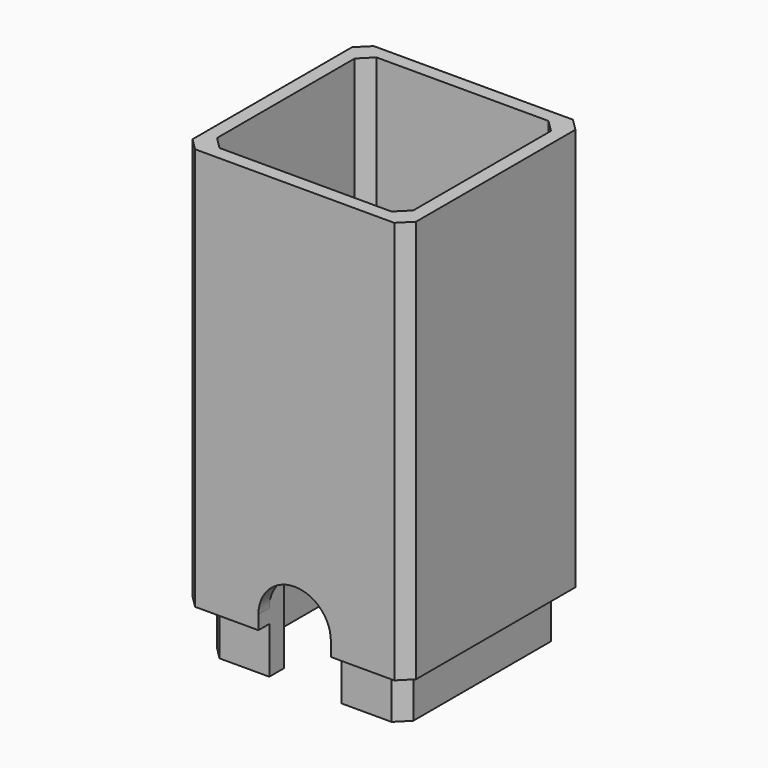
from build123d import *

# Parameters (mm, degrees)
PAD003_DEPTH    = 7.5
SKETCH007_W     = 37
SKETCH007_H     = 37
SKETCH007_W_2   = 32.5
SKETCH007_H_2   = 32.5
PAD004_DEPTH    = 66.72
CHAMFER_SIZE    = 2
CHAMFER001_SIZE = 2.9999
POCKET_DEPTH    = 74.421
POCKET001_DEPTH = 18.501


with BuildPart() as part:
    # Sketch006 → Pad003 (new body, symmetric)
    with BuildSketch(Plane.XY):
        Polygon((-16.25, 16.25), (16.25, 16.25), (16.25, -16.25), (6, -16.25), (6, -13.25), (13.25, -13.25), (13.25, 13.25), (-13.25, 13.25), (-13.25, -13.25), (-6, -13.25), (-6, -16.25), (-16.25, -16.25), align=None)
    extrude(amount=PAD003_DEPTH, both=True)

    # Sketch007 (on DatumPlane) → Pad004 (join)
    with BuildSketch(Plane.XY.offset(66.92)):
        Rectangle(SKETCH007_W, SKETCH007_H)
        Rectangle(SKETCH007_W_2, SKETCH007_H_2, mode=Mode.SUBTRACT)
    extrude(amount=-PAD004_DEPTH)

    # Chamfer
    chamfer_edges = [part.edges().sort_by_distance(p)[0] for p in [
        (18.5, -18.5, 33.56),
        (-18.5, -18.5, 33.56),
        (-18.5, 18.5, 33.56),
        (18.5, 18.5, 33.56),
        (-16.25, -16.25, 37.21),
        (16.25, 16.25, 37.21),
        (16.25, -16.25, 37.21),
        (-16.25, 16.25, 37.21),
        (-13.25, 13.25, 0),
        (13.25, 13.25, 0),
        (13.25, -13.25, 0),
        (-13.25, -13.25, 0),
        (16.25, -16.25, -3.65),
        (-16.25, -16.25, -3.65),
        (-16.25, 16.25, -3.65),
        (16.25, 16.25, -3.65),
    ]]
    chamfer(chamfer_edges, length=CHAMFER_SIZE)

    # Chamfer001
    chamfer001_edges = [part.edges().sort_by_distance(p)[0] for p in [
        (-16.25, 0, 7.5),
        (-15.25, 15.25, 7.5),
        (0, 16.25, 7.5),
        (15.25, 15.25, 7.5),
        (16.25, 0, 7.5),
        (15.25, -15.25, 7.5),
        (10.125, -16.25, 7.5),
        (-15.25, -15.25, 7.5),
        (-10.125, -16.25, 7.5),
    ]]
    chamfer(chamfer001_edges, length=CHAMFER001_SIZE)

    # Sketch (on DatumPlane) → Pocket (cut, through all)
    with BuildSketch(Plane.XY.offset(66.92)):
        Polygon((-13.2501, -13.007401), (-13.25, -11.25), (-11.25, -13.25), (-13.007401, -13.2501), align=None)
        Polygon((11.25, -13.25), (13.007401, -13.2501), (13.2501, -13.007401), (13.25, -11.25), align=None)
        Polygon((-13.25, 11.25), (-11.25, 13.25), (-13.007501, 13.25), (-13.2501, 13.007401), align=None)
        Polygon((11.25, 13.25), (13.25, 11.25), (13.2501, 13.007401), (13.007401, 13.2501), align=None)
    extrude(amount=-POCKET_DEPTH, mode=Mode.SUBTRACT)

    # Sketch008 → Pocket001 (cut, through all)
    with BuildSketch(Plane(origin=(0, 0, -17.5), x_dir=(-1, 0, 0), z_dir=(0, -1, 0))):
        with BuildLine():
            Line((-6, -10), (6, -10))
            Line((6, -10), (6, -20))
            ThreePointArc((-6, -20), (0, -26), (6, -20))
            Line((-6, -20), (-6, -10))
        make_face()
    extrude(amount=POCKET001_DEPTH, mode=Mode.SUBTRACT)


solid = part.part
